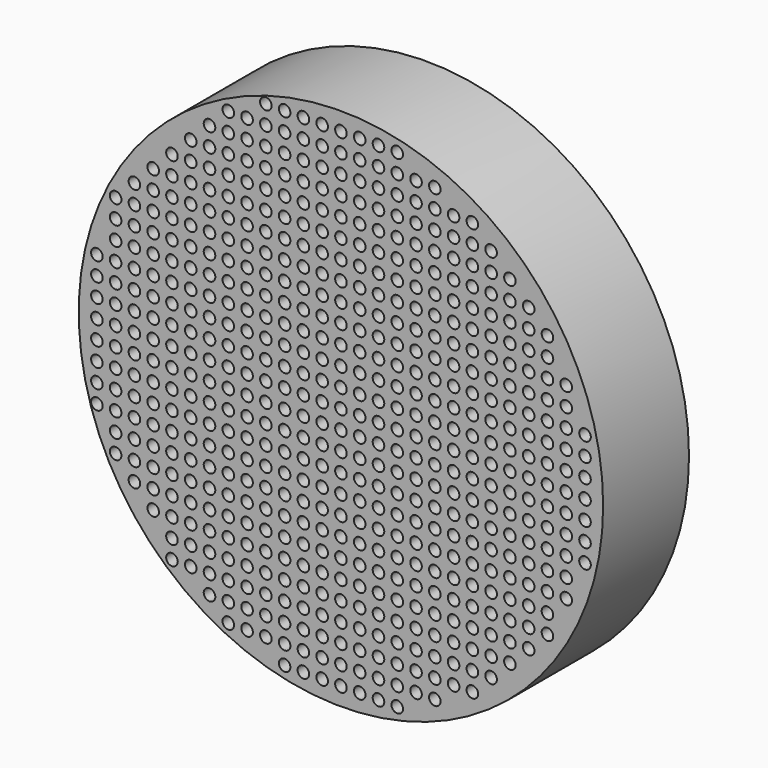
from build123d import *

# Parameters (mm, degrees)
F0_R     = 838
F1_DEPTH = 343
F2_R     = 838
F2_R_2   = 18.5
F3_DEPTH = 500


with BuildPart() as f1:
    # F0 (on Front) → F1 (new body)
    with BuildSketch(Plane.XZ):
        Circle(F0_R)
    extrude(amount=-F1_DEPTH)

    # F2 (on face) → F3 (intersect)
    with BuildSketch(Plane.XZ):
        Circle(F2_R)
        with Locations((-420, -660)):
            Circle(F2_R_2, mode=Mode.SUBTRACT)
        with Locations((-660, -420)):
            Circle(F2_R_2, mode=Mode.SUBTRACT)
        with Locations((-540, -600)):
            Circle(F2_R_2, mode=Mode.SUBTRACT)
        with Locations((-540, -540)):
            Circle(F2_R_2, mode=Mode.SUBTRACT)
        with Locations((-480, -600)):
            Circle(F2_R_2, mode=Mode.SUBTRACT)
        with Locations((-420, -600)):
            Circle(F2_R_2, mode=Mode.SUBTRACT)
        with Locations((-480, -540)):
            Circle(F2_R_2, mode=Mode.SUBTRACT)
        with Locations((-420, -540)):
            Circle(F2_R_2, mode=Mode.SUBTRACT)
        with Locations((-600, -480)):
            Circle(F2_R_2, mode=Mode.SUBTRACT)
        with Locations((-540, -480)):
            Circle(F2_R_2, mode=Mode.SUBTRACT)
        with Locations((-600, -420)):
            Circle(F2_R_2, mode=Mode.SUBTRACT)
        with Locations((-540, -420)):
            Circle(F2_R_2, mode=Mode.SUBTRACT)
        with Locations((-480, -480)):
            Circle(F2_R_2, mode=Mode.SUBTRACT)
        with Locations((-420, -480)):
            Circle(F2_R_2, mode=Mode.SUBTRACT)
        with Locations((-480, -420)):
            Circle(F2_R_2, mode=Mode.SUBTRACT)
        with Locations((-420, -420)):
            Circle(F2_R_2, mode=Mode.SUBTRACT)
        with Locations((-360, -720)):
            Circle(F2_R_2, mode=Mode.SUBTRACT)
        with Locations((-360, -660)):
            Circle(F2_R_2, mode=Mode.SUBTRACT)
        with Locations((-300, -720)):
            Circle(F2_R_2, mode=Mode.SUBTRACT)
        with Locations((-240, -720)):
            Circle(F2_R_2, mode=Mode.SUBTRACT)
        with Locations((-300, -660)):
            Circle(F2_R_2, mode=Mode.SUBTRACT)
        with Locations((-240, -660)):
            Circle(F2_R_2, mode=Mode.SUBTRACT)
        with Locations((-180, -780)):
            Circle(F2_R_2, mode=Mode.SUBTRACT)
        with Locations((-120, -780)):
            Circle(F2_R_2, mode=Mode.SUBTRACT)
        with Locations((-60, -780)):
            Circle(F2_R_2, mode=Mode.SUBTRACT)
        with Locations((-180, -720)):
            Circle(F2_R_2, mode=Mode.SUBTRACT)
        with Locations((-120, -720)):
            Circle(F2_R_2, mode=Mode.SUBTRACT)
        with Locations((-180, -660)):
            Circle(F2_R_2, mode=Mode.SUBTRACT)
        with Locations((-120, -660)):
            Circle(F2_R_2, mode=Mode.SUBTRACT)
        with Locations((-60, -720)):
            Circle(F2_R_2, mode=Mode.SUBTRACT)
        with Locations((-60, -660)):
            Circle(F2_R_2, mode=Mode.SUBTRACT)
        with Locations((-360, -600)):
            Circle(F2_R_2, mode=Mode.SUBTRACT)
        with Locations((-360, -540)):
            Circle(F2_R_2, mode=Mode.SUBTRACT)
        with Locations((-300, -600)):
            Circle(F2_R_2, mode=Mode.SUBTRACT)
        with Locations((-240, -600)):
            Circle(F2_R_2, mode=Mode.SUBTRACT)
        with Locations((-300, -540)):
            Circle(F2_R_2, mode=Mode.SUBTRACT)
        with Locations((-240, -540)):
            Circle(F2_R_2, mode=Mode.SUBTRACT)
        with Locations((-360, -480)):
            Circle(F2_R_2, mode=Mode.SUBTRACT)
        with Locations((-360, -420)):
            Circle(F2_R_2, mode=Mode.SUBTRACT)
        with Locations((-300, -480)):
            Circle(F2_R_2, mode=Mode.SUBTRACT)
        with Locations((-240, -480)):
            Circle(F2_R_2, mode=Mode.SUBTRACT)
        with Locations((-300, -420)):
            Circle(F2_R_2, mode=Mode.SUBTRACT)
        with Locations((-240, -420)):
            Circle(F2_R_2, mode=Mode.SUBTRACT)
        with Locations((-180, -600)):
            Circle(F2_R_2, mode=Mode.SUBTRACT)
        with Locations((-120, -600)):
            Circle(F2_R_2, mode=Mode.SUBTRACT)
        with Locations((-180, -540)):
            Circle(F2_R_2, mode=Mode.SUBTRACT)
        with Locations((-120, -540)):
            Circle(F2_R_2, mode=Mode.SUBTRACT)
        with Locations((-60, -600)):
            Circle(F2_R_2, mode=Mode.SUBTRACT)
        with Locations((-60, -540)):
            Circle(F2_R_2, mode=Mode.SUBTRACT)
        with Locations((-180, -480)):
            Circle(F2_R_2, mode=Mode.SUBTRACT)
        with Locations((-120, -480)):
            Circle(F2_R_2, mode=Mode.SUBTRACT)
        with Locations((-180, -420)):
            Circle(F2_R_2, mode=Mode.SUBTRACT)
        with Locations((-120, -420)):
            Circle(F2_R_2, mode=Mode.SUBTRACT)
        with Locations((-60, -480)):
            Circle(F2_R_2, mode=Mode.SUBTRACT)
        with Locations((-60, -420)):
            Circle(F2_R_2, mode=Mode.SUBTRACT)
        with Locations((-720, -360)):
            Circle(F2_R_2, mode=Mode.SUBTRACT)
        with Locations((-660, -360)):
            Circle(F2_R_2, mode=Mode.SUBTRACT)
        with Locations((-780, -240)):
            Circle(F2_R_2, mode=Mode.SUBTRACT)
        with Locations((-720, -300)):
            Circle(F2_R_2, mode=Mode.SUBTRACT)
        with Locations((-660, -300)):
            Circle(F2_R_2, mode=Mode.SUBTRACT)
        with Locations((-720, -240)):
            Circle(F2_R_2, mode=Mode.SUBTRACT)
        with Locations((-660, -240)):
            Circle(F2_R_2, mode=Mode.SUBTRACT)
        with Locations((-600, -360)):
            Circle(F2_R_2, mode=Mode.SUBTRACT)
        with Locations((-540, -360)):
            Circle(F2_R_2, mode=Mode.SUBTRACT)
        with Locations((-480, -360)):
            Circle(F2_R_2, mode=Mode.SUBTRACT)
        with Locations((-420, -360)):
            Circle(F2_R_2, mode=Mode.SUBTRACT)
        with Locations((-600, -300)):
            Circle(F2_R_2, mode=Mode.SUBTRACT)
        with Locations((-540, -300)):
            Circle(F2_R_2, mode=Mode.SUBTRACT)
        with Locations((-600, -240)):
            Circle(F2_R_2, mode=Mode.SUBTRACT)
        with Locations((-540, -240)):
            Circle(F2_R_2, mode=Mode.SUBTRACT)
        with Locations((-480, -300)):
            Circle(F2_R_2, mode=Mode.SUBTRACT)
        with Locations((-420, -300)):
            Circle(F2_R_2, mode=Mode.SUBTRACT)
        with Locations((-480, -240)):
            Circle(F2_R_2, mode=Mode.SUBTRACT)
        with Locations((-420, -240)):
            Circle(F2_R_2, mode=Mode.SUBTRACT)
        with Locations((-780, -180)):
            Circle(F2_R_2, mode=Mode.SUBTRACT)
        with Locations((-780, -120)):
            Circle(F2_R_2, mode=Mode.SUBTRACT)
        with Locations((-720, -180)):
            Circle(F2_R_2, mode=Mode.SUBTRACT)
        with Locations((-660, -180)):
            Circle(F2_R_2, mode=Mode.SUBTRACT)
        with Locations((-720, -120)):
            Circle(F2_R_2, mode=Mode.SUBTRACT)
        with Locations((-660, -120)):
            Circle(F2_R_2, mode=Mode.SUBTRACT)
        with Locations((-780, -60)):
            Circle(F2_R_2, mode=Mode.SUBTRACT)
        with Locations((-720, -60)):
            Circle(F2_R_2, mode=Mode.SUBTRACT)
        with Locations((-660, -60)):
            Circle(F2_R_2, mode=Mode.SUBTRACT)
        with Locations((-600, -180)):
            Circle(F2_R_2, mode=Mode.SUBTRACT)
        with Locations((-540, -180)):
            Circle(F2_R_2, mode=Mode.SUBTRACT)
        with Locations((-600, -120)):
            Circle(F2_R_2, mode=Mode.SUBTRACT)
        with Locations((-540, -120)):
            Circle(F2_R_2, mode=Mode.SUBTRACT)
        with Locations((-480, -180)):
            Circle(F2_R_2, mode=Mode.SUBTRACT)
        with Locations((-420, -180)):
            Circle(F2_R_2, mode=Mode.SUBTRACT)
        with Locations((-480, -120)):
            Circle(F2_R_2, mode=Mode.SUBTRACT)
        with Locations((-420, -120)):
            Circle(F2_R_2, mode=Mode.SUBTRACT)
        with Locations((-600, -60)):
            Circle(F2_R_2, mode=Mode.SUBTRACT)
        with Locations((-540, -60)):
            Circle(F2_R_2, mode=Mode.SUBTRACT)
        with Locations((-480, -60)):
            Circle(F2_R_2, mode=Mode.SUBTRACT)
        with Locations((-420, -60)):
            Circle(F2_R_2, mode=Mode.SUBTRACT)
        with Locations((-360, -360)):
            Circle(F2_R_2, mode=Mode.SUBTRACT)
        with Locations((-300, -360)):
            Circle(F2_R_2, mode=Mode.SUBTRACT)
        with Locations((-240, -360)):
            Circle(F2_R_2, mode=Mode.SUBTRACT)
        with Locations((-360, -300)):
            Circle(F2_R_2, mode=Mode.SUBTRACT)
        with Locations((-360, -240)):
            Circle(F2_R_2, mode=Mode.SUBTRACT)
        with Locations((-300, -300)):
            Circle(F2_R_2, mode=Mode.SUBTRACT)
        with Locations((-240, -300)):
            Circle(F2_R_2, mode=Mode.SUBTRACT)
        with Locations((-300, -240)):
            Circle(F2_R_2, mode=Mode.SUBTRACT)
        with Locations((-240, -240)):
            Circle(F2_R_2, mode=Mode.SUBTRACT)
        with Locations((-180, -360)):
            Circle(F2_R_2, mode=Mode.SUBTRACT)
        with Locations((-120, -360)):
            Circle(F2_R_2, mode=Mode.SUBTRACT)
        with Locations((-60, -360)):
            Circle(F2_R_2, mode=Mode.SUBTRACT)
        with Locations((-180, -300)):
            Circle(F2_R_2, mode=Mode.SUBTRACT)
        with Locations((-120, -300)):
            Circle(F2_R_2, mode=Mode.SUBTRACT)
        with Locations((-180, -240)):
            Circle(F2_R_2, mode=Mode.SUBTRACT)
        with Locations((-120, -240)):
            Circle(F2_R_2, mode=Mode.SUBTRACT)
        with Locations((-60, -300)):
            Circle(F2_R_2, mode=Mode.SUBTRACT)
        with Locations((-60, -240)):
            Circle(F2_R_2, mode=Mode.SUBTRACT)
        with Locations((-360, -180)):
            Circle(F2_R_2, mode=Mode.SUBTRACT)
        with Locations((-360, -120)):
            Circle(F2_R_2, mode=Mode.SUBTRACT)
        with Locations((-300, -180)):
            Circle(F2_R_2, mode=Mode.SUBTRACT)
        with Locations((-240, -180)):
            Circle(F2_R_2, mode=Mode.SUBTRACT)
        with Locations((-300, -120)):
            Circle(F2_R_2, mode=Mode.SUBTRACT)
        with Locations((-240, -120)):
            Circle(F2_R_2, mode=Mode.SUBTRACT)
        with Locations((-360, -60)):
            Circle(F2_R_2, mode=Mode.SUBTRACT)
        with Locations((-300, -60)):
            Circle(F2_R_2, mode=Mode.SUBTRACT)
        with Locations((-240, -60)):
            Circle(F2_R_2, mode=Mode.SUBTRACT)
        with Locations((-180, -180)):
            Circle(F2_R_2, mode=Mode.SUBTRACT)
        with Locations((-120, -180)):
            Circle(F2_R_2, mode=Mode.SUBTRACT)
        with Locations((-180, -120)):
            Circle(F2_R_2, mode=Mode.SUBTRACT)
        with Locations((-120, -120)):
            Circle(F2_R_2, mode=Mode.SUBTRACT)
        with Locations((-60, -180)):
            Circle(F2_R_2, mode=Mode.SUBTRACT)
        with Locations((-60, -120)):
            Circle(F2_R_2, mode=Mode.SUBTRACT)
        with Locations((-180, -60)):
            Circle(F2_R_2, mode=Mode.SUBTRACT)
        with Locations((-120, -60)):
            Circle(F2_R_2, mode=Mode.SUBTRACT)
        with Locations((-60, -60)):
            Circle(F2_R_2, mode=Mode.SUBTRACT)
        with Locations((0, -780)):
            Circle(F2_R_2, mode=Mode.SUBTRACT)
        with Locations((60, -780)):
            Circle(F2_R_2, mode=Mode.SUBTRACT)
        with Locations((120, -780)):
            Circle(F2_R_2, mode=Mode.SUBTRACT)
        with Locations((180, -780)):
            Circle(F2_R_2, mode=Mode.SUBTRACT)
        with Locations((0, -720)):
            Circle(F2_R_2, mode=Mode.SUBTRACT)
        with Locations((60, -720)):
            Circle(F2_R_2, mode=Mode.SUBTRACT)
        with Locations((0, -660)):
            Circle(F2_R_2, mode=Mode.SUBTRACT)
        with Locations((60, -660)):
            Circle(F2_R_2, mode=Mode.SUBTRACT)
        with Locations((120, -720)):
            Circle(F2_R_2, mode=Mode.SUBTRACT)
        with Locations((180, -720)):
            Circle(F2_R_2, mode=Mode.SUBTRACT)
        with Locations((120, -660)):
            Circle(F2_R_2, mode=Mode.SUBTRACT)
        with Locations((180, -660)):
            Circle(F2_R_2, mode=Mode.SUBTRACT)
        with Locations((240, -720)):
            Circle(F2_R_2, mode=Mode.SUBTRACT)
        with Locations((300, -720)):
            Circle(F2_R_2, mode=Mode.SUBTRACT)
        with Locations((240, -660)):
            Circle(F2_R_2, mode=Mode.SUBTRACT)
        with Locations((300, -660)):
            Circle(F2_R_2, mode=Mode.SUBTRACT)
        with Locations((360, -660)):
            Circle(F2_R_2, mode=Mode.SUBTRACT)
        with Locations((0, -600)):
            Circle(F2_R_2, mode=Mode.SUBTRACT)
        with Locations((60, -600)):
            Circle(F2_R_2, mode=Mode.SUBTRACT)
        with Locations((0, -540)):
            Circle(F2_R_2, mode=Mode.SUBTRACT)
        with Locations((60, -540)):
            Circle(F2_R_2, mode=Mode.SUBTRACT)
        with Locations((120, -600)):
            Circle(F2_R_2, mode=Mode.SUBTRACT)
        with Locations((180, -600)):
            Circle(F2_R_2, mode=Mode.SUBTRACT)
        with Locations((120, -540)):
            Circle(F2_R_2, mode=Mode.SUBTRACT)
        with Locations((180, -540)):
            Circle(F2_R_2, mode=Mode.SUBTRACT)
        with Locations((0, -480)):
            Circle(F2_R_2, mode=Mode.SUBTRACT)
        with Locations((60, -480)):
            Circle(F2_R_2, mode=Mode.SUBTRACT)
        with Locations((0, -420)):
            Circle(F2_R_2, mode=Mode.SUBTRACT)
        with Locations((60, -420)):
            Circle(F2_R_2, mode=Mode.SUBTRACT)
        with Locations((120, -480)):
            Circle(F2_R_2, mode=Mode.SUBTRACT)
        with Locations((180, -480)):
            Circle(F2_R_2, mode=Mode.SUBTRACT)
        with Locations((120, -420)):
            Circle(F2_R_2, mode=Mode.SUBTRACT)
        with Locations((180, -420)):
            Circle(F2_R_2, mode=Mode.SUBTRACT)
        with Locations((240, -600)):
            Circle(F2_R_2, mode=Mode.SUBTRACT)
        with Locations((300, -600)):
            Circle(F2_R_2, mode=Mode.SUBTRACT)
        with Locations((240, -540)):
            Circle(F2_R_2, mode=Mode.SUBTRACT)
        with Locations((300, -540)):
            Circle(F2_R_2, mode=Mode.SUBTRACT)
        with Locations((360, -600)):
            Circle(F2_R_2, mode=Mode.SUBTRACT)
        with Locations((360, -540)):
            Circle(F2_R_2, mode=Mode.SUBTRACT)
        with Locations((240, -480)):
            Circle(F2_R_2, mode=Mode.SUBTRACT)
        with Locations((300, -480)):
            Circle(F2_R_2, mode=Mode.SUBTRACT)
        with Locations((240, -420)):
            Circle(F2_R_2, mode=Mode.SUBTRACT)
        with Locations((300, -420)):
            Circle(F2_R_2, mode=Mode.SUBTRACT)
        with Locations((360, -480)):
            Circle(F2_R_2, mode=Mode.SUBTRACT)
        with Locations((360, -420)):
            Circle(F2_R_2, mode=Mode.SUBTRACT)
        with Locations((420, -660)):
            Circle(F2_R_2, mode=Mode.SUBTRACT)
        with Locations((420, -600)):
            Circle(F2_R_2, mode=Mode.SUBTRACT)
        with Locations((480, -600)):
            Circle(F2_R_2, mode=Mode.SUBTRACT)
        with Locations((420, -540)):
            Circle(F2_R_2, mode=Mode.SUBTRACT)
        with Locations((480, -540)):
            Circle(F2_R_2, mode=Mode.SUBTRACT)
        with Locations((540, -540)):
            Circle(F2_R_2, mode=Mode.SUBTRACT)
        with Locations((420, -480)):
            Circle(F2_R_2, mode=Mode.SUBTRACT)
        with Locations((480, -480)):
            Circle(F2_R_2, mode=Mode.SUBTRACT)
        with Locations((420, -420)):
            Circle(F2_R_2, mode=Mode.SUBTRACT)
        with Locations((480, -420)):
            Circle(F2_R_2, mode=Mode.SUBTRACT)
        with Locations((540, -480)):
            Circle(F2_R_2, mode=Mode.SUBTRACT)
        with Locations((600, -480)):
            Circle(F2_R_2, mode=Mode.SUBTRACT)
        with Locations((540, -420)):
            Circle(F2_R_2, mode=Mode.SUBTRACT)
        with Locations((600, -420)):
            Circle(F2_R_2, mode=Mode.SUBTRACT)
        with Locations((660, -420)):
            Circle(F2_R_2, mode=Mode.SUBTRACT)
        with Locations((0, -360)):
            Circle(F2_R_2, mode=Mode.SUBTRACT)
        with Locations((60, -360)):
            Circle(F2_R_2, mode=Mode.SUBTRACT)
        with Locations((120, -360)):
            Circle(F2_R_2, mode=Mode.SUBTRACT)
        with Locations((180, -360)):
            Circle(F2_R_2, mode=Mode.SUBTRACT)
        with Locations((0, -300)):
            Circle(F2_R_2, mode=Mode.SUBTRACT)
        with Locations((60, -300)):
            Circle(F2_R_2, mode=Mode.SUBTRACT)
        with Locations((0, -240)):
            Circle(F2_R_2, mode=Mode.SUBTRACT)
        with Locations((60, -240)):
            Circle(F2_R_2, mode=Mode.SUBTRACT)
        with Locations((120, -300)):
            Circle(F2_R_2, mode=Mode.SUBTRACT)
        with Locations((180, -300)):
            Circle(F2_R_2, mode=Mode.SUBTRACT)
        with Locations((120, -240)):
            Circle(F2_R_2, mode=Mode.SUBTRACT)
        with Locations((180, -240)):
            Circle(F2_R_2, mode=Mode.SUBTRACT)
        with Locations((240, -360)):
            Circle(F2_R_2, mode=Mode.SUBTRACT)
        with Locations((300, -360)):
            Circle(F2_R_2, mode=Mode.SUBTRACT)
        with Locations((360, -360)):
            Circle(F2_R_2, mode=Mode.SUBTRACT)
        with Locations((240, -300)):
            Circle(F2_R_2, mode=Mode.SUBTRACT)
        with Locations((300, -300)):
            Circle(F2_R_2, mode=Mode.SUBTRACT)
        with Locations((240, -240)):
            Circle(F2_R_2, mode=Mode.SUBTRACT)
        with Locations((300, -240)):
            Circle(F2_R_2, mode=Mode.SUBTRACT)
        with Locations((360, -300)):
            Circle(F2_R_2, mode=Mode.SUBTRACT)
        with Locations((360, -240)):
            Circle(F2_R_2, mode=Mode.SUBTRACT)
        with Locations((0, -180)):
            Circle(F2_R_2, mode=Mode.SUBTRACT)
        with Locations((60, -180)):
            Circle(F2_R_2, mode=Mode.SUBTRACT)
        with Locations((0, -120)):
            Circle(F2_R_2, mode=Mode.SUBTRACT)
        with Locations((60, -120)):
            Circle(F2_R_2, mode=Mode.SUBTRACT)
        with Locations((120, -180)):
            Circle(F2_R_2, mode=Mode.SUBTRACT)
        with Locations((180, -180)):
            Circle(F2_R_2, mode=Mode.SUBTRACT)
        with Locations((120, -120)):
            Circle(F2_R_2, mode=Mode.SUBTRACT)
        with Locations((180, -120)):
            Circle(F2_R_2, mode=Mode.SUBTRACT)
        with Locations((0, -60)):
            Circle(F2_R_2, mode=Mode.SUBTRACT)
        with Locations((60, -60)):
            Circle(F2_R_2, mode=Mode.SUBTRACT)
        with Locations((120, -60)):
            Circle(F2_R_2, mode=Mode.SUBTRACT)
        with Locations((180, -60)):
            Circle(F2_R_2, mode=Mode.SUBTRACT)
        with Locations((240, -180)):
            Circle(F2_R_2, mode=Mode.SUBTRACT)
        with Locations((300, -180)):
            Circle(F2_R_2, mode=Mode.SUBTRACT)
        with Locations((240, -120)):
            Circle(F2_R_2, mode=Mode.SUBTRACT)
        with Locations((300, -120)):
            Circle(F2_R_2, mode=Mode.SUBTRACT)
        with Locations((360, -180)):
            Circle(F2_R_2, mode=Mode.SUBTRACT)
        with Locations((360, -120)):
            Circle(F2_R_2, mode=Mode.SUBTRACT)
        with Locations((240, -60)):
            Circle(F2_R_2, mode=Mode.SUBTRACT)
        with Locations((300, -60)):
            Circle(F2_R_2, mode=Mode.SUBTRACT)
        with Locations((360, -60)):
            Circle(F2_R_2, mode=Mode.SUBTRACT)
        with Locations((420, -360)):
            Circle(F2_R_2, mode=Mode.SUBTRACT)
        with Locations((480, -360)):
            Circle(F2_R_2, mode=Mode.SUBTRACT)
        with Locations((540, -360)):
            Circle(F2_R_2, mode=Mode.SUBTRACT)
        with Locations((600, -360)):
            Circle(F2_R_2, mode=Mode.SUBTRACT)
        with Locations((420, -300)):
            Circle(F2_R_2, mode=Mode.SUBTRACT)
        with Locations((480, -300)):
            Circle(F2_R_2, mode=Mode.SUBTRACT)
        with Locations((420, -240)):
            Circle(F2_R_2, mode=Mode.SUBTRACT)
        with Locations((480, -240)):
            Circle(F2_R_2, mode=Mode.SUBTRACT)
        with Locations((540, -300)):
            Circle(F2_R_2, mode=Mode.SUBTRACT)
        with Locations((600, -300)):
            Circle(F2_R_2, mode=Mode.SUBTRACT)
        with Locations((540, -240)):
            Circle(F2_R_2, mode=Mode.SUBTRACT)
        with Locations((600, -240)):
            Circle(F2_R_2, mode=Mode.SUBTRACT)
        with Locations((660, -360)):
            Circle(F2_R_2, mode=Mode.SUBTRACT)
        with Locations((660, -300)):
            Circle(F2_R_2, mode=Mode.SUBTRACT)
        with Locations((720, -300)):
            Circle(F2_R_2, mode=Mode.SUBTRACT)
        with Locations((660, -240)):
            Circle(F2_R_2, mode=Mode.SUBTRACT)
        with Locations((720, -240)):
            Circle(F2_R_2, mode=Mode.SUBTRACT)
        with Locations((420, -180)):
            Circle(F2_R_2, mode=Mode.SUBTRACT)
        with Locations((480, -180)):
            Circle(F2_R_2, mode=Mode.SUBTRACT)
        with Locations((420, -120)):
            Circle(F2_R_2, mode=Mode.SUBTRACT)
        with Locations((480, -120)):
            Circle(F2_R_2, mode=Mode.SUBTRACT)
        with Locations((540, -180)):
            Circle(F2_R_2, mode=Mode.SUBTRACT)
        with Locations((600, -180)):
            Circle(F2_R_2, mode=Mode.SUBTRACT)
        with Locations((540, -120)):
            Circle(F2_R_2, mode=Mode.SUBTRACT)
        with Locations((600, -120)):
            Circle(F2_R_2, mode=Mode.SUBTRACT)
        with Locations((420, -60)):
            Circle(F2_R_2, mode=Mode.SUBTRACT)
        with Locations((480, -60)):
            Circle(F2_R_2, mode=Mode.SUBTRACT)
        with Locations((540, -60)):
            Circle(F2_R_2, mode=Mode.SUBTRACT)
        with Locations((600, -60)):
            Circle(F2_R_2, mode=Mode.SUBTRACT)
        with Locations((660, -180)):
            Circle(F2_R_2, mode=Mode.SUBTRACT)
        with Locations((720, -180)):
            Circle(F2_R_2, mode=Mode.SUBTRACT)
        with Locations((660, -120)):
            Circle(F2_R_2, mode=Mode.SUBTRACT)
        with Locations((720, -120)):
            Circle(F2_R_2, mode=Mode.SUBTRACT)
        with Locations((780, -180)):
            Circle(F2_R_2, mode=Mode.SUBTRACT)
        with Locations((780, -120)):
            Circle(F2_R_2, mode=Mode.SUBTRACT)
        with Locations((660, -60)):
            Circle(F2_R_2, mode=Mode.SUBTRACT)
        with Locations((720, -60)):
            Circle(F2_R_2, mode=Mode.SUBTRACT)
        with Locations((780, -60)):
            Circle(F2_R_2, mode=Mode.SUBTRACT)
        with Locations((-780, 0)):
            Circle(F2_R_2, mode=Mode.SUBTRACT)
        with Locations((-780, 60)):
            Circle(F2_R_2, mode=Mode.SUBTRACT)
        with Locations((-720, 0)):
            Circle(F2_R_2, mode=Mode.SUBTRACT)
        with Locations((-660, 0)):
            Circle(F2_R_2, mode=Mode.SUBTRACT)
        with Locations((-720, 60)):
            Circle(F2_R_2, mode=Mode.SUBTRACT)
        with Locations((-660, 60)):
            Circle(F2_R_2, mode=Mode.SUBTRACT)
        with Locations((-780, 120)):
            Circle(F2_R_2, mode=Mode.SUBTRACT)
        with Locations((-780, 180)):
            Circle(F2_R_2, mode=Mode.SUBTRACT)
        with Locations((-720, 120)):
            Circle(F2_R_2, mode=Mode.SUBTRACT)
        with Locations((-660, 120)):
            Circle(F2_R_2, mode=Mode.SUBTRACT)
        with Locations((-720, 180)):
            Circle(F2_R_2, mode=Mode.SUBTRACT)
        with Locations((-660, 180)):
            Circle(F2_R_2, mode=Mode.SUBTRACT)
        with Locations((-600, 0)):
            Circle(F2_R_2, mode=Mode.SUBTRACT)
        with Locations((-540, 0)):
            Circle(F2_R_2, mode=Mode.SUBTRACT)
        with Locations((-600, 60)):
            Circle(F2_R_2, mode=Mode.SUBTRACT)
        with Locations((-540, 60)):
            Circle(F2_R_2, mode=Mode.SUBTRACT)
        with Locations((-480, 0)):
            Circle(F2_R_2, mode=Mode.SUBTRACT)
        with Locations((-420, 0)):
            Circle(F2_R_2, mode=Mode.SUBTRACT)
        with Locations((-480, 60)):
            Circle(F2_R_2, mode=Mode.SUBTRACT)
        with Locations((-420, 60)):
            Circle(F2_R_2, mode=Mode.SUBTRACT)
        with Locations((-600, 120)):
            Circle(F2_R_2, mode=Mode.SUBTRACT)
        with Locations((-540, 120)):
            Circle(F2_R_2, mode=Mode.SUBTRACT)
        with Locations((-600, 180)):
            Circle(F2_R_2, mode=Mode.SUBTRACT)
        with Locations((-540, 180)):
            Circle(F2_R_2, mode=Mode.SUBTRACT)
        with Locations((-480, 120)):
            Circle(F2_R_2, mode=Mode.SUBTRACT)
        with Locations((-420, 120)):
            Circle(F2_R_2, mode=Mode.SUBTRACT)
        with Locations((-480, 180)):
            Circle(F2_R_2, mode=Mode.SUBTRACT)
        with Locations((-420, 180)):
            Circle(F2_R_2, mode=Mode.SUBTRACT)
        with Locations((-720, 240)):
            Circle(F2_R_2, mode=Mode.SUBTRACT)
        with Locations((-660, 240)):
            Circle(F2_R_2, mode=Mode.SUBTRACT)
        with Locations((-720, 300)):
            Circle(F2_R_2, mode=Mode.SUBTRACT)
        with Locations((-660, 300)):
            Circle(F2_R_2, mode=Mode.SUBTRACT)
        with Locations((-720, 360)):
            Circle(F2_R_2, mode=Mode.SUBTRACT)
        with Locations((-660, 360)):
            Circle(F2_R_2, mode=Mode.SUBTRACT)
        with Locations((-600, 240)):
            Circle(F2_R_2, mode=Mode.SUBTRACT)
        with Locations((-540, 240)):
            Circle(F2_R_2, mode=Mode.SUBTRACT)
        with Locations((-600, 300)):
            Circle(F2_R_2, mode=Mode.SUBTRACT)
        with Locations((-540, 300)):
            Circle(F2_R_2, mode=Mode.SUBTRACT)
        with Locations((-480, 240)):
            Circle(F2_R_2, mode=Mode.SUBTRACT)
        with Locations((-420, 240)):
            Circle(F2_R_2, mode=Mode.SUBTRACT)
        with Locations((-480, 300)):
            Circle(F2_R_2, mode=Mode.SUBTRACT)
        with Locations((-420, 300)):
            Circle(F2_R_2, mode=Mode.SUBTRACT)
        with Locations((-600, 360)):
            Circle(F2_R_2, mode=Mode.SUBTRACT)
        with Locations((-540, 360)):
            Circle(F2_R_2, mode=Mode.SUBTRACT)
        with Locations((-480, 360)):
            Circle(F2_R_2, mode=Mode.SUBTRACT)
        with Locations((-420, 360)):
            Circle(F2_R_2, mode=Mode.SUBTRACT)
        with Locations((-360, 0)):
            Circle(F2_R_2, mode=Mode.SUBTRACT)
        with Locations((-360, 60)):
            Circle(F2_R_2, mode=Mode.SUBTRACT)
        with Locations((-300, 0)):
            Circle(F2_R_2, mode=Mode.SUBTRACT)
        with Locations((-240, 0)):
            Circle(F2_R_2, mode=Mode.SUBTRACT)
        with Locations((-300, 60)):
            Circle(F2_R_2, mode=Mode.SUBTRACT)
        with Locations((-240, 60)):
            Circle(F2_R_2, mode=Mode.SUBTRACT)
        with Locations((-360, 120)):
            Circle(F2_R_2, mode=Mode.SUBTRACT)
        with Locations((-360, 180)):
            Circle(F2_R_2, mode=Mode.SUBTRACT)
        with Locations((-300, 120)):
            Circle(F2_R_2, mode=Mode.SUBTRACT)
        with Locations((-240, 120)):
            Circle(F2_R_2, mode=Mode.SUBTRACT)
        with Locations((-300, 180)):
            Circle(F2_R_2, mode=Mode.SUBTRACT)
        with Locations((-240, 180)):
            Circle(F2_R_2, mode=Mode.SUBTRACT)
        with Locations((-180, 0)):
            Circle(F2_R_2, mode=Mode.SUBTRACT)
        with Locations((-120, 0)):
            Circle(F2_R_2, mode=Mode.SUBTRACT)
        with Locations((-180, 60)):
            Circle(F2_R_2, mode=Mode.SUBTRACT)
        with Locations((-120, 60)):
            Circle(F2_R_2, mode=Mode.SUBTRACT)
        with Locations((-60, 0)):
            Circle(F2_R_2, mode=Mode.SUBTRACT)
        with Locations((-60, 60)):
            Circle(F2_R_2, mode=Mode.SUBTRACT)
        with Locations((-180, 120)):
            Circle(F2_R_2, mode=Mode.SUBTRACT)
        with Locations((-120, 120)):
            Circle(F2_R_2, mode=Mode.SUBTRACT)
        with Locations((-180, 180)):
            Circle(F2_R_2, mode=Mode.SUBTRACT)
        with Locations((-120, 180)):
            Circle(F2_R_2, mode=Mode.SUBTRACT)
        with Locations((-60, 120)):
            Circle(F2_R_2, mode=Mode.SUBTRACT)
        with Locations((-60, 180)):
            Circle(F2_R_2, mode=Mode.SUBTRACT)
        with Locations((-360, 240)):
            Circle(F2_R_2, mode=Mode.SUBTRACT)
        with Locations((-360, 300)):
            Circle(F2_R_2, mode=Mode.SUBTRACT)
        with Locations((-300, 240)):
            Circle(F2_R_2, mode=Mode.SUBTRACT)
        with Locations((-240, 240)):
            Circle(F2_R_2, mode=Mode.SUBTRACT)
        with Locations((-300, 300)):
            Circle(F2_R_2, mode=Mode.SUBTRACT)
        with Locations((-240, 300)):
            Circle(F2_R_2, mode=Mode.SUBTRACT)
        with Locations((-360, 360)):
            Circle(F2_R_2, mode=Mode.SUBTRACT)
        with Locations((-300, 360)):
            Circle(F2_R_2, mode=Mode.SUBTRACT)
        with Locations((-240, 360)):
            Circle(F2_R_2, mode=Mode.SUBTRACT)
        with Locations((-180, 240)):
            Circle(F2_R_2, mode=Mode.SUBTRACT)
        with Locations((-120, 240)):
            Circle(F2_R_2, mode=Mode.SUBTRACT)
        with Locations((-180, 300)):
            Circle(F2_R_2, mode=Mode.SUBTRACT)
        with Locations((-120, 300)):
            Circle(F2_R_2, mode=Mode.SUBTRACT)
        with Locations((-60, 240)):
            Circle(F2_R_2, mode=Mode.SUBTRACT)
        with Locations((-60, 300)):
            Circle(F2_R_2, mode=Mode.SUBTRACT)
        with Locations((-180, 360)):
            Circle(F2_R_2, mode=Mode.SUBTRACT)
        with Locations((-120, 360)):
            Circle(F2_R_2, mode=Mode.SUBTRACT)
        with Locations((-60, 360)):
            Circle(F2_R_2, mode=Mode.SUBTRACT)
        with Locations((-660, 420)):
            Circle(F2_R_2, mode=Mode.SUBTRACT)
        with Locations((-600, 420)):
            Circle(F2_R_2, mode=Mode.SUBTRACT)
        with Locations((-540, 420)):
            Circle(F2_R_2, mode=Mode.SUBTRACT)
        with Locations((-600, 480)):
            Circle(F2_R_2, mode=Mode.SUBTRACT)
        with Locations((-540, 480)):
            Circle(F2_R_2, mode=Mode.SUBTRACT)
        with Locations((-480, 420)):
            Circle(F2_R_2, mode=Mode.SUBTRACT)
        with Locations((-420, 420)):
            Circle(F2_R_2, mode=Mode.SUBTRACT)
        with Locations((-480, 480)):
            Circle(F2_R_2, mode=Mode.SUBTRACT)
        with Locations((-420, 480)):
            Circle(F2_R_2, mode=Mode.SUBTRACT)
        with Locations((-540, 540)):
            Circle(F2_R_2, mode=Mode.SUBTRACT)
        with Locations((-480, 540)):
            Circle(F2_R_2, mode=Mode.SUBTRACT)
        with Locations((-420, 540)):
            Circle(F2_R_2, mode=Mode.SUBTRACT)
        with Locations((-480, 600)):
            Circle(F2_R_2, mode=Mode.SUBTRACT)
        with Locations((-420, 600)):
            Circle(F2_R_2, mode=Mode.SUBTRACT)
        with Locations((-420, 660)):
            Circle(F2_R_2, mode=Mode.SUBTRACT)
        with Locations((-360, 420)):
            Circle(F2_R_2, mode=Mode.SUBTRACT)
        with Locations((-360, 480)):
            Circle(F2_R_2, mode=Mode.SUBTRACT)
        with Locations((-300, 420)):
            Circle(F2_R_2, mode=Mode.SUBTRACT)
        with Locations((-240, 420)):
            Circle(F2_R_2, mode=Mode.SUBTRACT)
        with Locations((-300, 480)):
            Circle(F2_R_2, mode=Mode.SUBTRACT)
        with Locations((-240, 480)):
            Circle(F2_R_2, mode=Mode.SUBTRACT)
        with Locations((-360, 540)):
            Circle(F2_R_2, mode=Mode.SUBTRACT)
        with Locations((-360, 600)):
            Circle(F2_R_2, mode=Mode.SUBTRACT)
        with Locations((-300, 540)):
            Circle(F2_R_2, mode=Mode.SUBTRACT)
        with Locations((-240, 540)):
            Circle(F2_R_2, mode=Mode.SUBTRACT)
        with Locations((-300, 600)):
            Circle(F2_R_2, mode=Mode.SUBTRACT)
        with Locations((-240, 600)):
            Circle(F2_R_2, mode=Mode.SUBTRACT)
        with Locations((-180, 420)):
            Circle(F2_R_2, mode=Mode.SUBTRACT)
        with Locations((-120, 420)):
            Circle(F2_R_2, mode=Mode.SUBTRACT)
        with Locations((-180, 480)):
            Circle(F2_R_2, mode=Mode.SUBTRACT)
        with Locations((-120, 480)):
            Circle(F2_R_2, mode=Mode.SUBTRACT)
        with Locations((-60, 420)):
            Circle(F2_R_2, mode=Mode.SUBTRACT)
        with Locations((-60, 480)):
            Circle(F2_R_2, mode=Mode.SUBTRACT)
        with Locations((-180, 540)):
            Circle(F2_R_2, mode=Mode.SUBTRACT)
        with Locations((-120, 540)):
            Circle(F2_R_2, mode=Mode.SUBTRACT)
        with Locations((-180, 600)):
            Circle(F2_R_2, mode=Mode.SUBTRACT)
        with Locations((-120, 600)):
            Circle(F2_R_2, mode=Mode.SUBTRACT)
        with Locations((-60, 540)):
            Circle(F2_R_2, mode=Mode.SUBTRACT)
        with Locations((-60, 600)):
            Circle(F2_R_2, mode=Mode.SUBTRACT)
        with Locations((-360, 660)):
            Circle(F2_R_2, mode=Mode.SUBTRACT)
        with Locations((-360, 720)):
            Circle(F2_R_2, mode=Mode.SUBTRACT)
        with Locations((-300, 660)):
            Circle(F2_R_2, mode=Mode.SUBTRACT)
        with Locations((-240, 660)):
            Circle(F2_R_2, mode=Mode.SUBTRACT)
        with Locations((-300, 720)):
            Circle(F2_R_2, mode=Mode.SUBTRACT)
        with Locations((-240, 720)):
            Circle(F2_R_2, mode=Mode.SUBTRACT)
        with Locations((-240, 780)):
            Circle(F2_R_2, mode=Mode.SUBTRACT)
        with Locations((-180, 660)):
            Circle(F2_R_2, mode=Mode.SUBTRACT)
        with Locations((-120, 660)):
            Circle(F2_R_2, mode=Mode.SUBTRACT)
        with Locations((-180, 720)):
            Circle(F2_R_2, mode=Mode.SUBTRACT)
        with Locations((-120, 720)):
            Circle(F2_R_2, mode=Mode.SUBTRACT)
        with Locations((-60, 660)):
            Circle(F2_R_2, mode=Mode.SUBTRACT)
        with Locations((-60, 720)):
            Circle(F2_R_2, mode=Mode.SUBTRACT)
        with Locations((-180, 780)):
            Circle(F2_R_2, mode=Mode.SUBTRACT)
        with Locations((-120, 780)):
            Circle(F2_R_2, mode=Mode.SUBTRACT)
        with Locations((-60, 780)):
            Circle(F2_R_2, mode=Mode.SUBTRACT)
        Circle(F2_R_2, mode=Mode.SUBTRACT)
        with Locations((60, 0)):
            Circle(F2_R_2, mode=Mode.SUBTRACT)
        with Locations((0, 60)):
            Circle(F2_R_2, mode=Mode.SUBTRACT)
        with Locations((60, 60)):
            Circle(F2_R_2, mode=Mode.SUBTRACT)
        with Locations((120, 0)):
            Circle(F2_R_2, mode=Mode.SUBTRACT)
        with Locations((180, 0)):
            Circle(F2_R_2, mode=Mode.SUBTRACT)
        with Locations((120, 60)):
            Circle(F2_R_2, mode=Mode.SUBTRACT)
        with Locations((180, 60)):
            Circle(F2_R_2, mode=Mode.SUBTRACT)
        with Locations((0, 120)):
            Circle(F2_R_2, mode=Mode.SUBTRACT)
        with Locations((60, 120)):
            Circle(F2_R_2, mode=Mode.SUBTRACT)
        with Locations((0, 180)):
            Circle(F2_R_2, mode=Mode.SUBTRACT)
        with Locations((60, 180)):
            Circle(F2_R_2, mode=Mode.SUBTRACT)
        with Locations((120, 120)):
            Circle(F2_R_2, mode=Mode.SUBTRACT)
        with Locations((180, 120)):
            Circle(F2_R_2, mode=Mode.SUBTRACT)
        with Locations((120, 180)):
            Circle(F2_R_2, mode=Mode.SUBTRACT)
        with Locations((180, 180)):
            Circle(F2_R_2, mode=Mode.SUBTRACT)
        with Locations((240, 0)):
            Circle(F2_R_2, mode=Mode.SUBTRACT)
        with Locations((300, 0)):
            Circle(F2_R_2, mode=Mode.SUBTRACT)
        with Locations((240, 60)):
            Circle(F2_R_2, mode=Mode.SUBTRACT)
        with Locations((300, 60)):
            Circle(F2_R_2, mode=Mode.SUBTRACT)
        with Locations((360, 0)):
            Circle(F2_R_2, mode=Mode.SUBTRACT)
        with Locations((360, 60)):
            Circle(F2_R_2, mode=Mode.SUBTRACT)
        with Locations((240, 120)):
            Circle(F2_R_2, mode=Mode.SUBTRACT)
        with Locations((300, 120)):
            Circle(F2_R_2, mode=Mode.SUBTRACT)
        with Locations((240, 180)):
            Circle(F2_R_2, mode=Mode.SUBTRACT)
        with Locations((300, 180)):
            Circle(F2_R_2, mode=Mode.SUBTRACT)
        with Locations((360, 120)):
            Circle(F2_R_2, mode=Mode.SUBTRACT)
        with Locations((360, 180)):
            Circle(F2_R_2, mode=Mode.SUBTRACT)
        with Locations((0, 240)):
            Circle(F2_R_2, mode=Mode.SUBTRACT)
        with Locations((60, 240)):
            Circle(F2_R_2, mode=Mode.SUBTRACT)
        with Locations((0, 300)):
            Circle(F2_R_2, mode=Mode.SUBTRACT)
        with Locations((60, 300)):
            Circle(F2_R_2, mode=Mode.SUBTRACT)
        with Locations((120, 240)):
            Circle(F2_R_2, mode=Mode.SUBTRACT)
        with Locations((180, 240)):
            Circle(F2_R_2, mode=Mode.SUBTRACT)
        with Locations((120, 300)):
            Circle(F2_R_2, mode=Mode.SUBTRACT)
        with Locations((180, 300)):
            Circle(F2_R_2, mode=Mode.SUBTRACT)
        with Locations((0, 360)):
            Circle(F2_R_2, mode=Mode.SUBTRACT)
        with Locations((60, 360)):
            Circle(F2_R_2, mode=Mode.SUBTRACT)
        with Locations((120, 360)):
            Circle(F2_R_2, mode=Mode.SUBTRACT)
        with Locations((180, 360)):
            Circle(F2_R_2, mode=Mode.SUBTRACT)
        with Locations((240, 240)):
            Circle(F2_R_2, mode=Mode.SUBTRACT)
        with Locations((300, 240)):
            Circle(F2_R_2, mode=Mode.SUBTRACT)
        with Locations((240, 300)):
            Circle(F2_R_2, mode=Mode.SUBTRACT)
        with Locations((300, 300)):
            Circle(F2_R_2, mode=Mode.SUBTRACT)
        with Locations((360, 240)):
            Circle(F2_R_2, mode=Mode.SUBTRACT)
        with Locations((360, 300)):
            Circle(F2_R_2, mode=Mode.SUBTRACT)
        with Locations((240, 360)):
            Circle(F2_R_2, mode=Mode.SUBTRACT)
        with Locations((300, 360)):
            Circle(F2_R_2, mode=Mode.SUBTRACT)
        with Locations((360, 360)):
            Circle(F2_R_2, mode=Mode.SUBTRACT)
        with Locations((420, 0)):
            Circle(F2_R_2, mode=Mode.SUBTRACT)
        with Locations((480, 0)):
            Circle(F2_R_2, mode=Mode.SUBTRACT)
        with Locations((420, 60)):
            Circle(F2_R_2, mode=Mode.SUBTRACT)
        with Locations((480, 60)):
            Circle(F2_R_2, mode=Mode.SUBTRACT)
        with Locations((540, 0)):
            Circle(F2_R_2, mode=Mode.SUBTRACT)
        with Locations((600, 0)):
            Circle(F2_R_2, mode=Mode.SUBTRACT)
        with Locations((540, 60)):
            Circle(F2_R_2, mode=Mode.SUBTRACT)
        with Locations((600, 60)):
            Circle(F2_R_2, mode=Mode.SUBTRACT)
        with Locations((420, 120)):
            Circle(F2_R_2, mode=Mode.SUBTRACT)
        with Locations((480, 120)):
            Circle(F2_R_2, mode=Mode.SUBTRACT)
        with Locations((420, 180)):
            Circle(F2_R_2, mode=Mode.SUBTRACT)
        with Locations((480, 180)):
            Circle(F2_R_2, mode=Mode.SUBTRACT)
        with Locations((540, 120)):
            Circle(F2_R_2, mode=Mode.SUBTRACT)
        with Locations((600, 120)):
            Circle(F2_R_2, mode=Mode.SUBTRACT)
        with Locations((540, 180)):
            Circle(F2_R_2, mode=Mode.SUBTRACT)
        with Locations((600, 180)):
            Circle(F2_R_2, mode=Mode.SUBTRACT)
        with Locations((660, 0)):
            Circle(F2_R_2, mode=Mode.SUBTRACT)
        with Locations((720, 0)):
            Circle(F2_R_2, mode=Mode.SUBTRACT)
        with Locations((660, 60)):
            Circle(F2_R_2, mode=Mode.SUBTRACT)
        with Locations((720, 60)):
            Circle(F2_R_2, mode=Mode.SUBTRACT)
        with Locations((780, 0)):
            Circle(F2_R_2, mode=Mode.SUBTRACT)
        with Locations((780, 60)):
            Circle(F2_R_2, mode=Mode.SUBTRACT)
        with Locations((660, 120)):
            Circle(F2_R_2, mode=Mode.SUBTRACT)
        with Locations((720, 120)):
            Circle(F2_R_2, mode=Mode.SUBTRACT)
        with Locations((660, 180)):
            Circle(F2_R_2, mode=Mode.SUBTRACT)
        with Locations((720, 180)):
            Circle(F2_R_2, mode=Mode.SUBTRACT)
        with Locations((780, 120)):
            Circle(F2_R_2, mode=Mode.SUBTRACT)
        with Locations((780, 180)):
            Circle(F2_R_2, mode=Mode.SUBTRACT)
        with Locations((420, 240)):
            Circle(F2_R_2, mode=Mode.SUBTRACT)
        with Locations((480, 240)):
            Circle(F2_R_2, mode=Mode.SUBTRACT)
        with Locations((420, 300)):
            Circle(F2_R_2, mode=Mode.SUBTRACT)
        with Locations((480, 300)):
            Circle(F2_R_2, mode=Mode.SUBTRACT)
        with Locations((540, 240)):
            Circle(F2_R_2, mode=Mode.SUBTRACT)
        with Locations((600, 240)):
            Circle(F2_R_2, mode=Mode.SUBTRACT)
        with Locations((540, 300)):
            Circle(F2_R_2, mode=Mode.SUBTRACT)
        with Locations((600, 300)):
            Circle(F2_R_2, mode=Mode.SUBTRACT)
        with Locations((420, 360)):
            Circle(F2_R_2, mode=Mode.SUBTRACT)
        with Locations((480, 360)):
            Circle(F2_R_2, mode=Mode.SUBTRACT)
        with Locations((540, 360)):
            Circle(F2_R_2, mode=Mode.SUBTRACT)
        with Locations((600, 360)):
            Circle(F2_R_2, mode=Mode.SUBTRACT)
        with Locations((660, 240)):
            Circle(F2_R_2, mode=Mode.SUBTRACT)
        with Locations((720, 240)):
            Circle(F2_R_2, mode=Mode.SUBTRACT)
        with Locations((660, 300)):
            Circle(F2_R_2, mode=Mode.SUBTRACT)
        with Locations((720, 300)):
            Circle(F2_R_2, mode=Mode.SUBTRACT)
        with Locations((660, 360)):
            Circle(F2_R_2, mode=Mode.SUBTRACT)
        with Locations((0, 420)):
            Circle(F2_R_2, mode=Mode.SUBTRACT)
        with Locations((60, 420)):
            Circle(F2_R_2, mode=Mode.SUBTRACT)
        with Locations((0, 480)):
            Circle(F2_R_2, mode=Mode.SUBTRACT)
        with Locations((60, 480)):
            Circle(F2_R_2, mode=Mode.SUBTRACT)
        with Locations((120, 420)):
            Circle(F2_R_2, mode=Mode.SUBTRACT)
        with Locations((180, 420)):
            Circle(F2_R_2, mode=Mode.SUBTRACT)
        with Locations((120, 480)):
            Circle(F2_R_2, mode=Mode.SUBTRACT)
        with Locations((180, 480)):
            Circle(F2_R_2, mode=Mode.SUBTRACT)
        with Locations((0, 540)):
            Circle(F2_R_2, mode=Mode.SUBTRACT)
        with Locations((60, 540)):
            Circle(F2_R_2, mode=Mode.SUBTRACT)
        with Locations((0, 600)):
            Circle(F2_R_2, mode=Mode.SUBTRACT)
        with Locations((60, 600)):
            Circle(F2_R_2, mode=Mode.SUBTRACT)
        with Locations((120, 540)):
            Circle(F2_R_2, mode=Mode.SUBTRACT)
        with Locations((180, 540)):
            Circle(F2_R_2, mode=Mode.SUBTRACT)
        with Locations((120, 600)):
            Circle(F2_R_2, mode=Mode.SUBTRACT)
        with Locations((180, 600)):
            Circle(F2_R_2, mode=Mode.SUBTRACT)
        with Locations((240, 420)):
            Circle(F2_R_2, mode=Mode.SUBTRACT)
        with Locations((300, 420)):
            Circle(F2_R_2, mode=Mode.SUBTRACT)
        with Locations((240, 480)):
            Circle(F2_R_2, mode=Mode.SUBTRACT)
        with Locations((300, 480)):
            Circle(F2_R_2, mode=Mode.SUBTRACT)
        with Locations((360, 420)):
            Circle(F2_R_2, mode=Mode.SUBTRACT)
        with Locations((360, 480)):
            Circle(F2_R_2, mode=Mode.SUBTRACT)
        with Locations((240, 540)):
            Circle(F2_R_2, mode=Mode.SUBTRACT)
        with Locations((300, 540)):
            Circle(F2_R_2, mode=Mode.SUBTRACT)
        with Locations((240, 600)):
            Circle(F2_R_2, mode=Mode.SUBTRACT)
        with Locations((300, 600)):
            Circle(F2_R_2, mode=Mode.SUBTRACT)
        with Locations((360, 540)):
            Circle(F2_R_2, mode=Mode.SUBTRACT)
        with Locations((360, 600)):
            Circle(F2_R_2, mode=Mode.SUBTRACT)
        with Locations((0, 660)):
            Circle(F2_R_2, mode=Mode.SUBTRACT)
        with Locations((60, 660)):
            Circle(F2_R_2, mode=Mode.SUBTRACT)
        with Locations((0, 720)):
            Circle(F2_R_2, mode=Mode.SUBTRACT)
        with Locations((60, 720)):
            Circle(F2_R_2, mode=Mode.SUBTRACT)
        with Locations((120, 660)):
            Circle(F2_R_2, mode=Mode.SUBTRACT)
        with Locations((180, 660)):
            Circle(F2_R_2, mode=Mode.SUBTRACT)
        with Locations((120, 720)):
            Circle(F2_R_2, mode=Mode.SUBTRACT)
        with Locations((180, 720)):
            Circle(F2_R_2, mode=Mode.SUBTRACT)
        with Locations((0, 780)):
            Circle(F2_R_2, mode=Mode.SUBTRACT)
        with Locations((60, 780)):
            Circle(F2_R_2, mode=Mode.SUBTRACT)
        with Locations((120, 780)):
            Circle(F2_R_2, mode=Mode.SUBTRACT)
        with Locations((180, 780)):
            Circle(F2_R_2, mode=Mode.SUBTRACT)
        with Locations((240, 660)):
            Circle(F2_R_2, mode=Mode.SUBTRACT)
        with Locations((300, 660)):
            Circle(F2_R_2, mode=Mode.SUBTRACT)
        with Locations((240, 720)):
            Circle(F2_R_2, mode=Mode.SUBTRACT)
        with Locations((300, 720)):
            Circle(F2_R_2, mode=Mode.SUBTRACT)
        with Locations((360, 660)):
            Circle(F2_R_2, mode=Mode.SUBTRACT)
        with Locations((420, 420)):
            Circle(F2_R_2, mode=Mode.SUBTRACT)
        with Locations((480, 420)):
            Circle(F2_R_2, mode=Mode.SUBTRACT)
        with Locations((420, 480)):
            Circle(F2_R_2, mode=Mode.SUBTRACT)
        with Locations((480, 480)):
            Circle(F2_R_2, mode=Mode.SUBTRACT)
        with Locations((540, 420)):
            Circle(F2_R_2, mode=Mode.SUBTRACT)
        with Locations((600, 420)):
            Circle(F2_R_2, mode=Mode.SUBTRACT)
        with Locations((540, 480)):
            Circle(F2_R_2, mode=Mode.SUBTRACT)
        with Locations((600, 480)):
            Circle(F2_R_2, mode=Mode.SUBTRACT)
        with Locations((420, 540)):
            Circle(F2_R_2, mode=Mode.SUBTRACT)
        with Locations((480, 540)):
            Circle(F2_R_2, mode=Mode.SUBTRACT)
        with Locations((420, 600)):
            Circle(F2_R_2, mode=Mode.SUBTRACT)
        with Locations((480, 600)):
            Circle(F2_R_2, mode=Mode.SUBTRACT)
        with Locations((540, 540)):
            Circle(F2_R_2, mode=Mode.SUBTRACT)
        with Locations((660, 420)):
            Circle(F2_R_2, mode=Mode.SUBTRACT)
        with Locations((420, 660)):
            Circle(F2_R_2, mode=Mode.SUBTRACT)
    extrude(amount=-F3_DEPTH, mode=Mode.INTERSECT)


solid = f1.part
